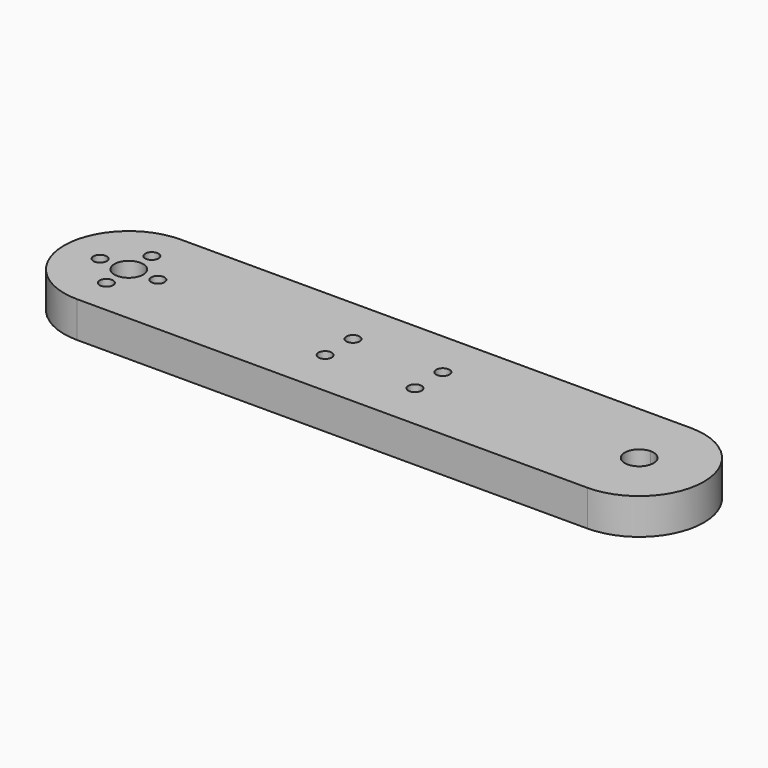
from build123d import *

# Parameters (mm, degrees)
F0_R     = 1.85
F0_R_2   = 4
F1_DEPTH = 10


with BuildPart() as f1:
    # F0 (on Top) → F1 (new body)
    with BuildSketch(Plane.XY):
        with BuildLine():
            Line((-71, -18), (71, -18))
            ThreePointArc((71, -18), (89, 0), (71, 18))
            Line((71, 18), (-71, 18))
            ThreePointArc((-71, 18), (-89, 0), (-71, -18))
        make_face()
        with Locations((-70.84427, -8)):
            Circle(F0_R, mode=Mode.SUBTRACT)
        with Locations((-12.5, -4.85)):
            Circle(F0_R, mode=Mode.SUBTRACT)
        with Locations((12.5, -4.85)):
            Circle(F0_R, mode=Mode.SUBTRACT)
        with Locations((-79, 0)):
            Circle(F0_R, mode=Mode.SUBTRACT)
        with Locations((-71, 0)):
            Circle(F0_R_2, mode=Mode.SUBTRACT)
        with Locations((-63.000624, 0.099887)):
            Circle(F0_R, mode=Mode.SUBTRACT)
        with Locations((-71.000624, 8)):
            Circle(F0_R, mode=Mode.SUBTRACT)
        with Locations((-12.5, 4.85)):
            Circle(F0_R, mode=Mode.SUBTRACT)
        with Locations((12.5, 4.85)):
            Circle(F0_R, mode=Mode.SUBTRACT)
        with BuildLine():
            ThreePointArc((71, 4), (73.828427, 2.828427), (75, 0))
            ThreePointArc((75, 0), (68.171573, -2.828427), (71, 4))
        make_face(mode=Mode.SUBTRACT)
    extrude(amount=F1_DEPTH)


solid = f1.part
